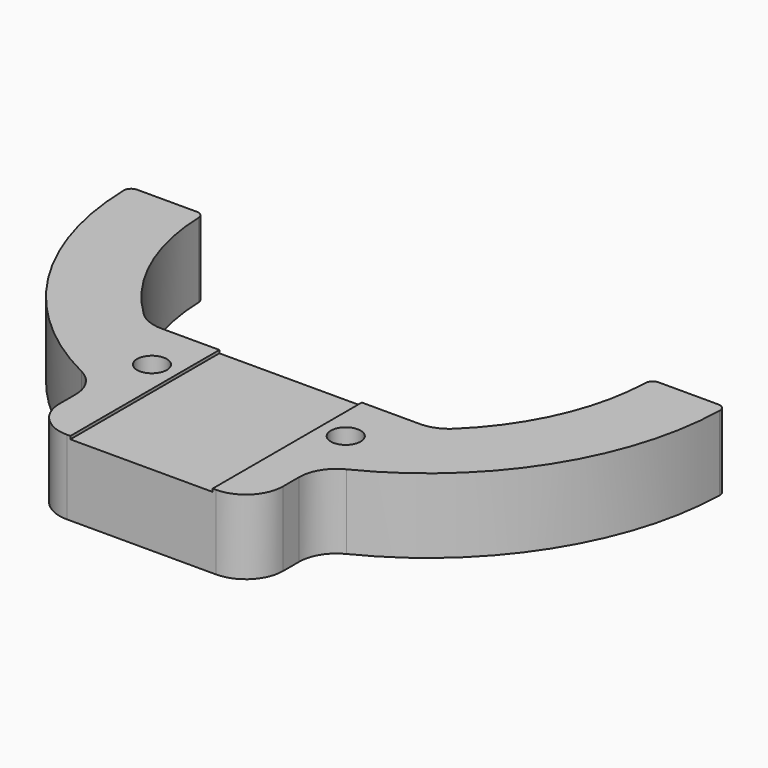
from build123d import *

# Parameters (mm, degrees)
F1_DEPTH = 10
F2_W     = 19.1
F2_H     = 25
F3_DEPTH = 0.4
F4_R     = 2
F5_DEPTH = 10.001
F6_R     = 5
F7_R     = 1


with BuildPart() as f1:
    # F0 (on Top) → F1 (new body)
    with BuildSketch(Plane.XY):
        with BuildLine():
            Line((-30, 0), (-40, 0))
            ThreePointArc((-40, 0), (-33.166248, -22.36068), (-15, -37.080992))
            Line((-15, -37.080992), (-15, -48))
            Line((-15, -48), (15, -48))
            Line((15, -48), (15, -37.080992))
            ThreePointArc((15, -37.080992), (33.166248, -22.36068), (40, 0))
            Line((40, 0), (30, 0))
            ThreePointArc((30, 0), (27.18309, -12.691714), (19.26136, -23))
            Line((19.26136, -23), (-19.26136, -23))
            ThreePointArc((-19.26136, -23), (-27.18309, -12.691714), (-30, 0))
        make_face()
    extrude(amount=F1_DEPTH)

    # F2 (on face) → F3 (cut)
    with BuildSketch(Plane.XY.offset(10)):
        with Locations((0, -35.5)):
            Rectangle(F2_W, F2_H)
    extrude(amount=-F3_DEPTH, mode=Mode.SUBTRACT)

    # F4 (on face) → F5 (cut, through all)
    with BuildSketch(Plane.XY.offset(10)):
        with Locations((-13, -30)):
            Circle(F4_R)
        with Locations((13, -30)):
            Circle(F4_R)
    extrude(amount=-F5_DEPTH, mode=Mode.SUBTRACT)

    # F6
    f6_edges = [f1.edges().sort_by_distance(p)[0] for p in [
        (-19.26136, -23, 5),
        (19.26136, -23, 5),
        (15, -37.080992, 5),
        (-15, -37.080992, 5),
        (-15, -48, 5),
        (15, -48, 5),
    ]]
    fillet(f6_edges, radius=F6_R)

    # F7
    f7_edges = [f1.edges().sort_by_distance(p)[0] for p in [
        (-40, 0, 5),
        (-30, 0, 5),
        (30, 0, 5),
        (40, 0, 5),
    ]]
    fillet(f7_edges, radius=F7_R)


solid = f1.part
